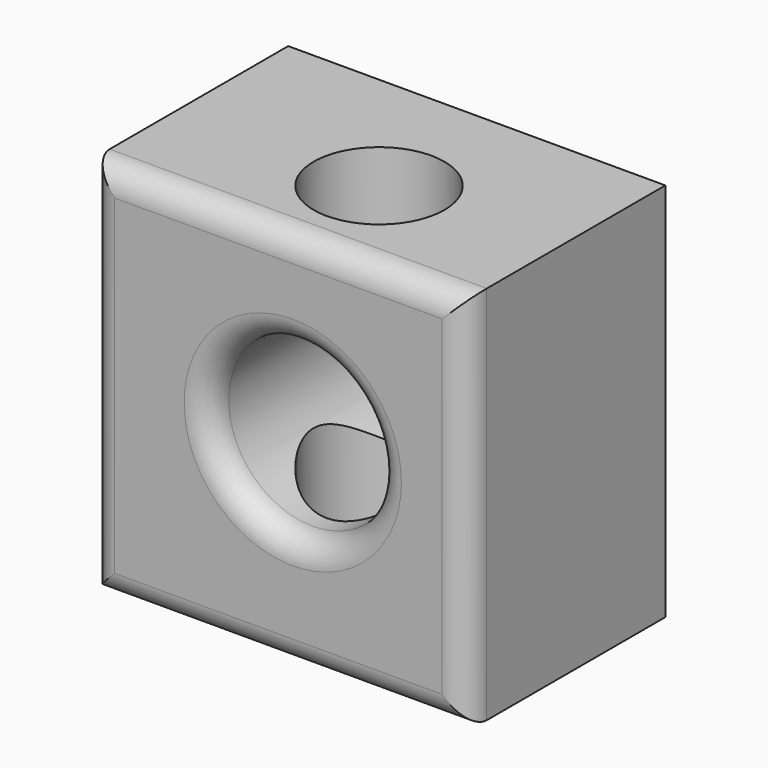
from build123d import *

# Parameters (mm, degrees)
F0_W     = 77.2405713797
F0_H     = 77.8463184834
F0_R     = 17.1685214952
F1_DEPTH = 50.8
F2_R     = 5.08
F3_R     = 13.396248622
F4_DEPTH = 228.6


with BuildPart() as f1:
    # F0 (on Front) → F1 (new body)
    with BuildSketch(Plane.XZ):
        with Locations((-2.95496732, -1.6224384308)):
            Rectangle(F0_W, F0_H)
        Circle(F0_R, mode=Mode.SUBTRACT)
    extrude(amount=F1_DEPTH)

    # F2
    f2_edges = [f1.edges().sort_by_distance(p)[0] for p in [
        (-2.954967, -50.8, -40.545598),
        (35.665318, -50.8, -1.622438),
        (-2.954967, -50.8, 37.300721),
        (-41.575253, -50.8, -1.622438),
        (-17.168521, -50.8, 0),
    ]]
    fillet(f2_edges, radius=F2_R)

    # F3 (on face) → F4 (cut)
    with BuildSketch(Plane(origin=(0, 0, -40.5455976725), x_dir=(1, 0, 0), z_dir=(0, 0, -1))):
        with Locations((0, 28.7160556763)):
            Circle(F3_R)
    extrude(amount=-F4_DEPTH, mode=Mode.SUBTRACT)


solid = f1.part
